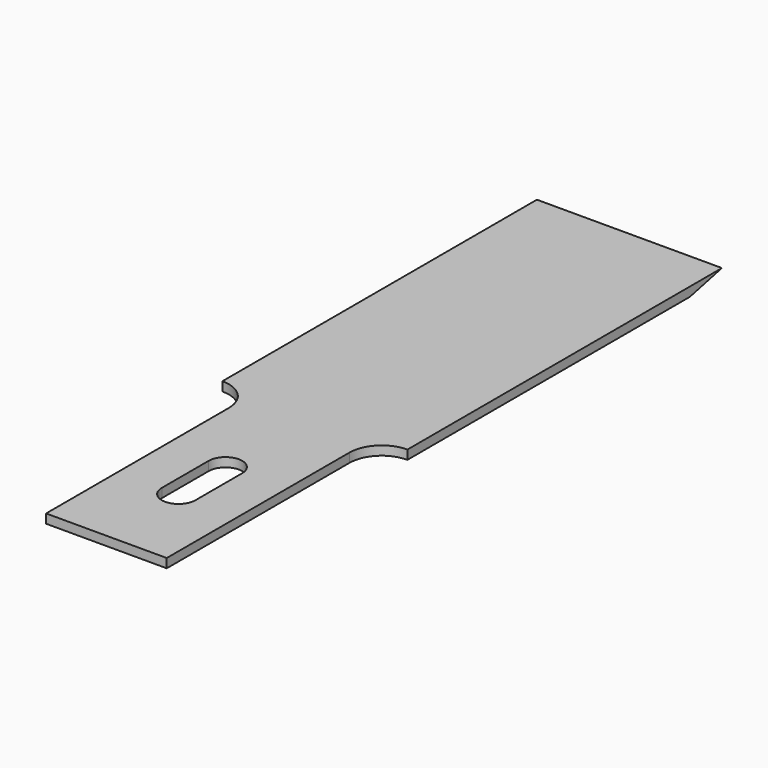
from build123d import *

# Parameters (mm, degrees)
F1_DEPTH = 0.63
F3_DEPTH = 12.851


with BuildPart() as f1:
    # F0 (on Top) → F1 (new body)
    with BuildSketch(Plane.XY):
        with BuildLine():
            Line((6.425, 0), (-6.425, 0))
            Line((-6.425, 0), (-6.425, -27.3))
            ThreePointArc((-6.425, -27.3), (-4.844616, -27.954616), (-4.19, -29.535))
            Line((-4.19, -29.535), (-4.19, -45.4))
            Line((-4.19, -45.4), (4.19, -45.4))
            Line((4.19, -45.4), (4.19, -29.535))
            ThreePointArc((4.19, -29.535), (4.844616, -27.954616), (6.425, -27.3))
            Line((6.425, -27.3), (6.425, 0))
        make_face()
        with BuildLine():
            Line((1.165, -35.065), (1.165, -39.135))
            ThreePointArc((1.165, -39.135), (0, -40.3), (-1.165, -39.135))
            Line((-1.165, -39.135), (-1.165, -35.065))
            ThreePointArc((-1.165, -35.065), (0, -33.9), (1.165, -35.065))
        make_face(mode=Mode.SUBTRACT)
    extrude(amount=F1_DEPTH)

    # F2 (on face) → F3 (cut, through all)
    with BuildSketch(Plane(origin=(-6.425, 0, 0), x_dir=(0, -1, 0), z_dir=(-1, 0, 0))):
        Polygon((0, 0.63), (0, 0), (2.779496, 0), align=None)
    extrude(amount=-F3_DEPTH, mode=Mode.SUBTRACT)


solid = f1.part
